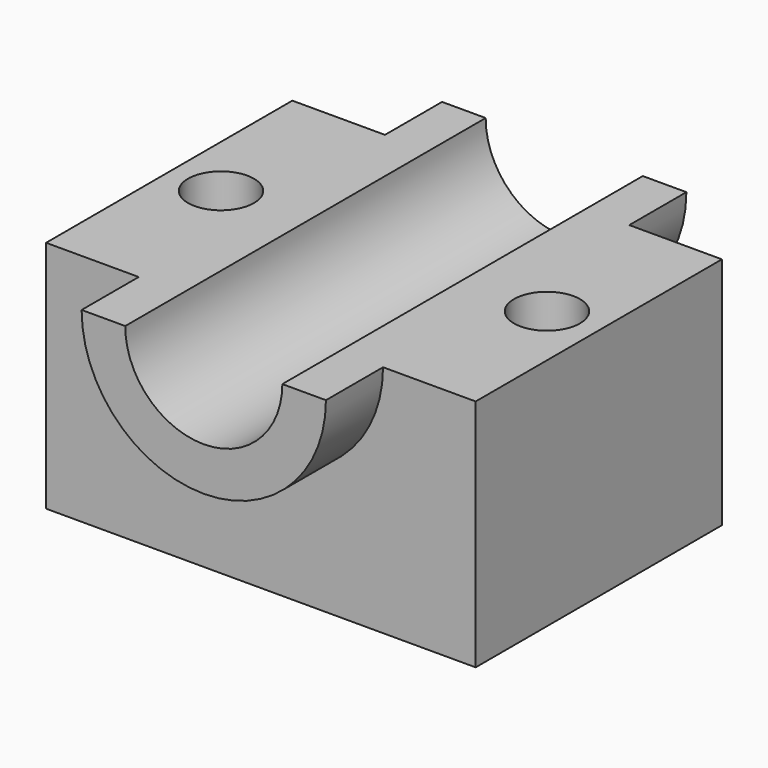
from build123d import *

# Parameters (mm, degrees)
F0_W     = 126.902834
F0_H     = 138.312936
F1_DEPTH = 45.466
F2_R     = 36.085461
F3_DEPTH = 66.548
F4_R     = 23.207671
F5_DEPTH = 157.988
F6_W     = 174.213074
F6_H     = 78.061931
F7_DEPTH = 75.946
F8_R     = 9.741343
F9_DEPTH = 80.264


with BuildPart() as f1:
    # F0 (on Front) → F1 (new body, symmetric)
    with BuildSketch(Plane.XZ):
        Rectangle(F0_W, F0_H)
    extrude(amount=F1_DEPTH, both=True)

    # F2 (on Front) → F3 (join, symmetric)
    with BuildSketch(Plane.XZ):
        Circle(F2_R)
    extrude(amount=F3_DEPTH, both=True)

    # F4 (on face) → F5 (cut)
    with BuildSketch(Plane.XZ.offset(66.548)):
        Circle(F4_R)
    extrude(amount=-F5_DEPTH, mode=Mode.SUBTRACT)

    # F6 (on Front) → F7 (cut, symmetric)
    with BuildSketch(Plane.XZ):
        with Locations((2.504658, 39.030966)):
            Rectangle(F6_W, F6_H)
    extrude(amount=F7_DEPTH, both=True, mode=Mode.SUBTRACT)

    # F8 (on face) → F9 (cut)
    with BuildSketch(Plane(origin=(0, 0, -69.156468), x_dir=(1, 0, 0), z_dir=(0, 0, -1))):
        with Locations((48.145149, 0)):
            Circle(F8_R)
        with Locations((-48.145149, 0)):
            Circle(F8_R)
    extrude(amount=-F9_DEPTH, mode=Mode.SUBTRACT)


solid = f1.part
